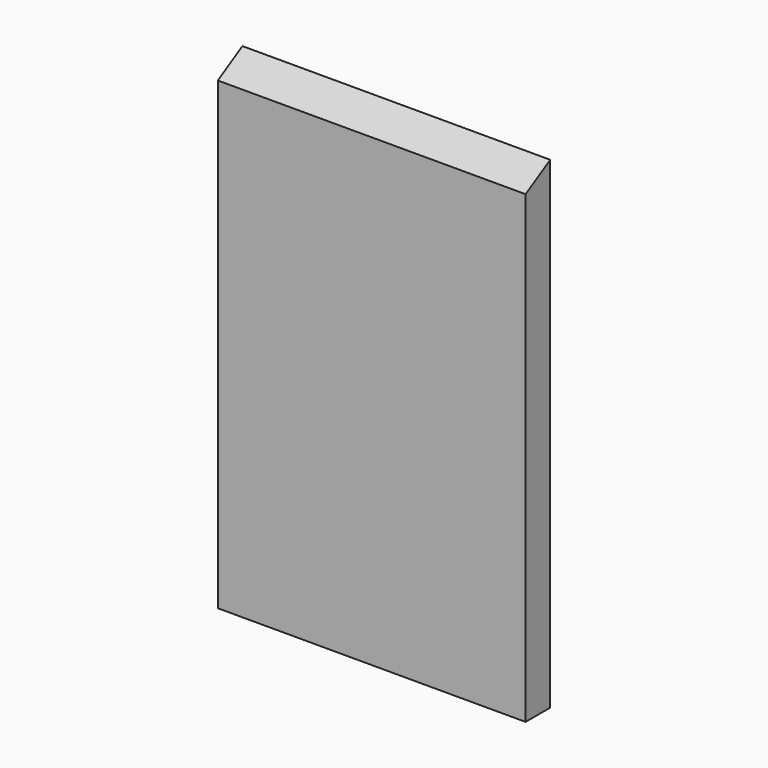
from build123d import *

# Parameters (mm, degrees)
F0_W     = 200
F0_H     = 313.453
F1_DEPTH = 20
F3_DEPTH = 200.001


with BuildPart() as f1:
    # F0 (on Front) → F1 (new body)
    with BuildSketch(Plane.XZ):
        Rectangle(F0_W, F0_H)
    extrude(amount=F1_DEPTH)

    # F2 (on face) → F3 (cut, through all)
    with BuildSketch(Plane(origin=(-100, 0, 0), x_dir=(0, -1, 0), z_dir=(-1, 0, 0))):
        Polygon((20, 156.7265), (0, 156.7265), (20, 145.179495), align=None)
    extrude(amount=-F3_DEPTH, mode=Mode.SUBTRACT)


solid = f1.part
